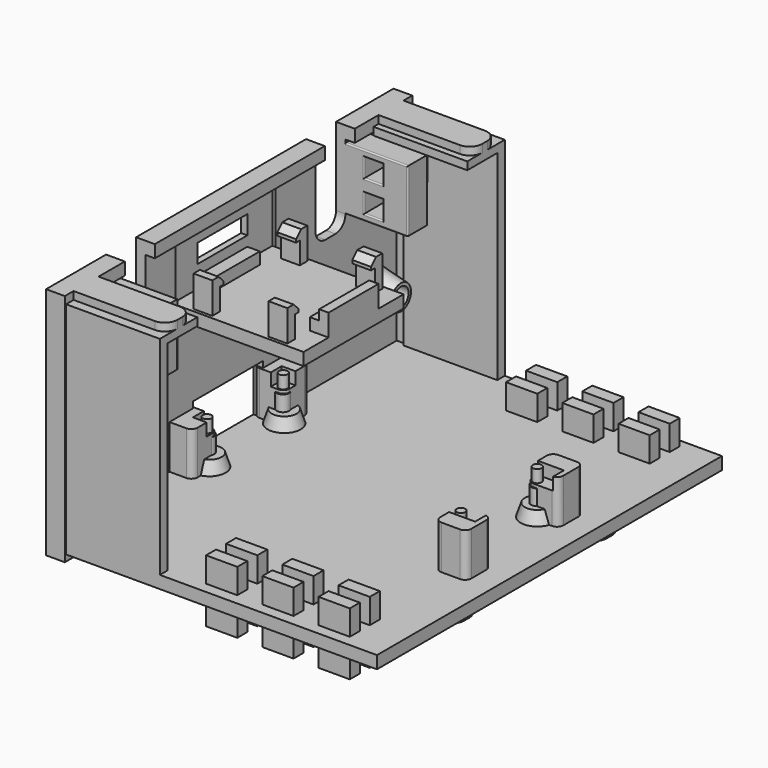
from build123d import *

# Parameters (mm, degrees)
BOX019_W               = 10
BOX019_H               = 5.45
BOX019_DEPTH           = 5
BOX019_PLACEMENT_ANGLE = 30
BOX018_W               = 5.45
BOX018_H               = 10
BOX018_DEPTH           = 5
BOX018_PLACEMENT_ANGLE = 120
BOX017_W               = 5.45
BOX017_H               = 10
BOX017_DEPTH           = 5
CYLINDER007_R          = 1
CYLINDER007_DEPTH      = 10
BOX022_W               = 10
BOX022_H               = 5.45
BOX022_DEPTH           = 5
BOX022_PLACEMENT_ANGLE = 30
BOX021_W               = 5.45
BOX021_H               = 10
BOX021_DEPTH           = 5
BOX021_PLACEMENT_ANGLE = 120
BOX020_W               = 5.45
BOX020_H               = 10
BOX020_DEPTH           = 5
CYLINDER008_R          = 1
CYLINDER008_DEPTH      = 10
BOX025_W               = 10
BOX025_H               = 5.45
BOX025_DEPTH           = 5
BOX025_PLACEMENT_ANGLE = 30
BOX024_W               = 5.45
BOX024_H               = 10
BOX024_DEPTH           = 5
BOX024_PLACEMENT_ANGLE = 120
BOX023_W               = 5.45
BOX023_H               = 10
BOX023_DEPTH           = 5
CYLINDER009_R          = 1
CYLINDER009_DEPTH      = 10
BOX016_W               = 10
BOX016_H               = 5.45
BOX016_DEPTH           = 5
BOX016_PLACEMENT_ANGLE = 30
BOX015_W               = 5.45
BOX015_H               = 10
BOX015_DEPTH           = 5
BOX015_PLACEMENT_ANGLE = 120
BOX014_W               = 5.45
BOX014_H               = 10
BOX014_DEPTH           = 5
CYLINDER006_R          = 1
CYLINDER006_DEPTH      = 10
BOX042_W               = 5
BOX042_H               = 2
BOX042_DEPTH           = 10
BOX043_W               = 5
BOX043_H               = 2
BOX043_DEPTH           = 10
BOX041_W               = 5
BOX041_H               = 2
BOX041_DEPTH           = 10
BOX045_W               = 5
BOX045_H               = 2
BOX045_DEPTH           = 10
BOX046_W               = 5
BOX046_H               = 2
BOX046_DEPTH           = 10
BOX044_W               = 5
BOX044_H               = 2
BOX044_DEPTH           = 10
BOX048_W               = 5
BOX048_H               = 2
BOX048_DEPTH           = 10
BOX049_W               = 5
BOX049_H               = 2
BOX049_DEPTH           = 10
BOX047_W               = 5
BOX047_H               = 2
BOX047_DEPTH           = 10
BOX039_W               = 5
BOX039_H               = 2
BOX039_DEPTH           = 10
BOX040_W               = 5
BOX040_H               = 2
BOX040_DEPTH           = 10
BOX038_W               = 5
BOX038_H               = 2
BOX038_DEPTH           = 10
BOX062_W               = 15
BOX062_H               = 7.5
BOX062_DEPTH           = 34
BOX063_W               = 15
BOX063_H               = 7.5
BOX063_DEPTH           = 34
BOX060_W               = 15
BOX060_H               = 7.5
BOX060_DEPTH           = 34.75
BOX061_W               = 15
BOX061_H               = 7.5
BOX061_DEPTH           = 34.75
BOX081_W               = 19.5
BOX081_H               = 16
BOX081_DEPTH           = 1.6
BOX083_W               = 21
BOX083_H               = 20
BOX083_DEPTH           = 2
BOX073_W               = 3
BOX073_H               = 14.5
BOX073_DEPTH           = 10
BOX080_W               = 3
BOX080_H               = 16
BOX080_DEPTH           = 7
BOX075_W               = 3
BOX075_H               = 19
BOX075_DEPTH           = 7
CHAMFER_SIZE           = 1
BOX079_W               = 2
BOX079_H               = 10
BOX079_DEPTH           = 3
BOX074_W               = 1
BOX074_H               = 20
BOX074_DEPTH           = 12
BOX072_W               = 3
BOX072_H               = 10
BOX072_DEPTH           = 5.5
BOX077_W               = 3
BOX077_H               = 14.5
BOX077_DEPTH           = 10
BOX076_W               = 3
BOX076_H               = 16
BOX076_DEPTH           = 7
BOX078_W               = 3
BOX078_H               = 19
BOX078_DEPTH           = 7
CHAMFER001_SIZE        = 1
BOX082_W               = 3
BOX082_H               = 10
BOX082_DEPTH           = 5.5
CUT005_PLACEMENT_ANGLE = 180
BOX084_W               = 5
BOX084_H               = 20
BOX084_DEPTH           = 11
BOX065_W               = 10
BOX065_H               = 6
BOX065_DEPTH           = 15
FILLET029_R            = 2
BOX064_W               = 10
BOX064_H               = 6
BOX064_DEPTH           = 15
FILLET028_R            = 2
BOX067_W               = 5
BOX067_H               = 5
BOX067_DEPTH           = 1.5
BOX068_W               = 5
BOX068_H               = 5
BOX068_DEPTH           = 1.5
BOX069_W               = 5
BOX069_H               = 5
BOX069_DEPTH           = 1.5
BOX070_W               = 5
BOX070_H               = 5
BOX070_DEPTH           = 1.5
BOX071_W               = 5
BOX071_H               = 5
BOX071_DEPTH           = 1.5
BOX066_W               = 5
BOX066_H               = 5
BOX066_DEPTH           = 1.5
BOX029_W               = 49
BOX029_H               = 5
BOX029_DEPTH           = 2
FILLET014_R            = 2
FILLET016_R            = 0.25
BOX030_W               = 49
BOX030_H               = 5
BOX030_DEPTH           = 2
FILLET017_R            = 2
FILLET018_R            = 0.25
BOX031_W               = 15
BOX031_H               = 5
BOX031_DEPTH           = 2
FILLET019_R            = 2
FILLET020_R            = 0.25
BOX028_W               = 15
BOX028_H               = 5
BOX028_DEPTH           = 2
FILLET_R               = 2
FILLET015_R            = 0.25
BOX027_W               = 10
BOX027_H               = 6
BOX027_DEPTH           = 15
FILLET013_R            = 2
BOX026_W               = 10
BOX026_H               = 6
BOX026_DEPTH           = 15
FILLET012_R            = 2
BOX005_W               = 15
BOX005_H               = 7.5
BOX005_DEPTH           = 34
BOX006_W               = 15
BOX006_H               = 7.5
BOX006_DEPTH           = 34
BOX003_W               = 15
BOX003_H               = 7.5
BOX003_DEPTH           = 34.75
BOX004_W               = 15
BOX004_H               = 7.5
BOX004_DEPTH           = 34.75
BOX051_W               = 5
BOX051_H               = 5
BOX051_DEPTH           = 1.5
BOX052_W               = 5
BOX052_H               = 5
BOX052_DEPTH           = 1.5
BOX053_W               = 5
BOX053_H               = 5
BOX053_DEPTH           = 1.5
BOX054_W               = 5
BOX054_H               = 5
BOX054_DEPTH           = 1.5
BOX055_W               = 5
BOX055_H               = 5
BOX055_DEPTH           = 1.5
BOX050_W               = 5
BOX050_H               = 5
BOX050_DEPTH           = 1.5
BOX037_W               = 3
BOX037_H               = 10
BOX037_DEPTH           = 3
BOX036_W               = 3
BOX036_H               = 10
BOX036_DEPTH           = 3
BOX035_W               = 10
BOX035_H               = 4
BOX035_DEPTH           = 10
FILLET023_R            = 0.2
BOX034_W               = 3
BOX034_H               = 10
BOX034_DEPTH           = 3
BOX033_W               = 3
BOX033_H               = 10
BOX033_DEPTH           = 3
BOX032_W               = 10
BOX032_H               = 4
BOX032_DEPTH           = 10
FILLET022_R            = 0.2
CYLINDER001_R          = 0.7
CYLINDER001_DEPTH      = 10
CYLINDER002_R          = 0.7
CYLINDER002_DEPTH      = 10
CYLINDER003_R          = 0.7
CYLINDER003_DEPTH      = 10
CYLINDER_R             = 0.7
CYLINDER_DEPTH         = 10
BOX_W                  = 45.16
BOX_H                  = 17.76
BOX_DEPTH              = 10
BOX057_W               = 5
BOX057_H               = 5
BOX057_DEPTH           = 7
FILLET025_R            = 1
BOX058_W               = 5
BOX058_H               = 5
BOX058_DEPTH           = 7
FILLET026_R            = 1
BOX059_W               = 5
BOX059_H               = 5
BOX059_DEPTH           = 7
FILLET027_R            = 1
BOX056_W               = 5
BOX056_H               = 5
BOX056_DEPTH           = 7
FILLET024_R            = 1
BOX002_W               = 50
BOX002_H               = 69
BOX002_DEPTH           = 2
BOX008_W               = 10
BOX008_H               = 14
BOX008_DEPTH           = 8
CYLINDER005_R          = 1.5
CYLINDER005_DEPTH      = 10
CYLINDER004_R          = 1.5
CYLINDER004_DEPTH      = 10
BOX007_W               = 3.5
BOX007_H               = 66.5
BOX007_DEPTH           = 32.5
BOX001_W               = 3
BOX001_H               = 69.5
BOX001_DEPTH           = 37.5


with BuildPart() as cone002:
    # Cone002 → Cone002 (revolve)
    with BuildSketch(Plane(origin=(42, 27, 2), x_dir=(1, 0, 0), z_dir=(0, -1, 0))):
        Polygon((0, 0), (3, 0), (2, 3), (0, 3), align=None)
    revolve(axis=Axis((42, 27, 2), (0, 0, 1)))


with BuildPart() as cone003:
    # Cone003 → Cone003 (revolve)
    with BuildSketch(Plane(origin=(42, 42, 2), x_dir=(1, 0, 0), z_dir=(0, -1, 0))):
        Polygon((0, 0), (3, 0), (2, 3), (0, 3), align=None)
    revolve(axis=Axis((42, 42, 2), (0, 0, 1)))


with BuildPart() as cone004:
    # Cone004 → Cone004 (revolve)
    with BuildSketch(Plane(origin=(1.5, 42, 2), x_dir=(1, 0, 0), z_dir=(0, -1, 0))):
        Polygon((0, 0), (3, 0), (2, 3), (0, 3), align=None)
    revolve(axis=Axis((1.5, 42, 2), (0, 0, 1)))


with BuildPart() as cone005:
    # Cone005 → Cone005 (revolve)
    with BuildSketch(Plane(origin=(1.5, 27, 2), x_dir=(1, 0, 0), z_dir=(0, -1, 0))):
        Polygon((0, 0), (3, 0), (2, 3), (0, 3), align=None)
    revolve(axis=Axis((1.5, 27, 2), (0, 0, 1)))


with BuildPart() as cube019:
    # Box019 → Box019 (new body)
    with BuildSketch(Plane.XY):
        with Locations((5, 2.725)):
            Rectangle(BOX019_W, BOX019_H)
    extrude(amount=BOX019_DEPTH)


with BuildPart() as cube019_1:
    # Box019 placement: moved
    add(cube019.part.moved(Location((0.55, 4, 0))).rotate(Axis((0.55, 4, 0), (0, 0, -1)), BOX019_PLACEMENT_ANGLE))


with BuildPart() as cube018:
    # Box018 → Box018 (new body)
    with BuildSketch(Plane.XY):
        with Locations((2.725, 5)):
            Rectangle(BOX018_W, BOX018_H)
    extrude(amount=BOX018_DEPTH)


with BuildPart() as cube018_1:
    # Box018 placement: moved
    add(cube018.part.moved(Location((11.5, 4, 0))).rotate(Axis((11.5, 4, 0), (0, 0, 1)), BOX018_PLACEMENT_ANGLE))


with BuildPart() as m_25_nut001:
    # Box017 → Box017 (new body)
    with BuildSketch(Plane(origin=(3.25, 0, 0), x_dir=(1, 0, 0), z_dir=(0, 0, 1))):
        with Locations((2.725, 5)):
            Rectangle(BOX017_W, BOX017_H)
    extrude(amount=BOX017_DEPTH)

    # Common001: intersect Cube019, Cube018
    add(cube019_1.part, mode=Mode.INTERSECT)
    add(cube018_1.part, mode=Mode.INTERSECT)


with BuildPart() as m_25_nut001_1:
    # Common001 placement: moved
    add(m_25_nut001.part.moved(Location((-2, 0, -1))))


with BuildPart() as screw_hole001:
    # Cylinder007 → Cylinder007 (new body)
    with BuildSketch(Plane(origin=(4, 4, -1), x_dir=(1, 0, 0), z_dir=(0, 0, 1))):
        Circle(CYLINDER007_R)
    extrude(amount=CYLINDER007_DEPTH)

    # Fusion009: union M.25 nut001
    add(m_25_nut001_1.part)


with BuildPart() as screw_hole001_1:
    # Fusion009 placement: moved
    add(screw_hole001.part.moved(Location((-2.7, 38, 0))))


with BuildPart() as cube022:
    # Box022 → Box022 (new body)
    with BuildSketch(Plane.XY):
        with Locations((5, 2.725)):
            Rectangle(BOX022_W, BOX022_H)
    extrude(amount=BOX022_DEPTH)


with BuildPart() as cube022_1:
    # Box022 placement: moved
    add(cube022.part.moved(Location((0.55, 4, 0))).rotate(Axis((0.55, 4, 0), (0, 0, -1)), BOX022_PLACEMENT_ANGLE))


with BuildPart() as cube021:
    # Box021 → Box021 (new body)
    with BuildSketch(Plane.XY):
        with Locations((2.725, 5)):
            Rectangle(BOX021_W, BOX021_H)
    extrude(amount=BOX021_DEPTH)


with BuildPart() as cube021_1:
    # Box021 placement: moved
    add(cube021.part.moved(Location((11.5, 4, 0))).rotate(Axis((11.5, 4, 0), (0, 0, 1)), BOX021_PLACEMENT_ANGLE))


with BuildPart() as m_25_nut002:
    # Box020 → Box020 (new body)
    with BuildSketch(Plane(origin=(3.25, 0, 0), x_dir=(1, 0, 0), z_dir=(0, 0, 1))):
        with Locations((2.725, 5)):
            Rectangle(BOX020_W, BOX020_H)
    extrude(amount=BOX020_DEPTH)

    # Common002: intersect Cube022, Cube021
    add(cube022_1.part, mode=Mode.INTERSECT)
    add(cube021_1.part, mode=Mode.INTERSECT)


with BuildPart() as m_25_nut002_1:
    # Common002 placement: moved
    add(m_25_nut002.part.moved(Location((-2, 0, -1))))


with BuildPart() as screw_hole002:
    # Cylinder008 → Cylinder008 (new body)
    with BuildSketch(Plane(origin=(4, 4, -1), x_dir=(1, 0, 0), z_dir=(0, 0, 1))):
        Circle(CYLINDER008_R)
    extrude(amount=CYLINDER008_DEPTH)

    # Fusion010: union M.25 nut002
    add(m_25_nut002_1.part)


with BuildPart() as screw_hole002_1:
    # Fusion010 placement: moved
    add(screw_hole002.part.moved(Location((38, 23, 0))))


with BuildPart() as cube025:
    # Box025 → Box025 (new body)
    with BuildSketch(Plane.XY):
        with Locations((5, 2.725)):
            Rectangle(BOX025_W, BOX025_H)
    extrude(amount=BOX025_DEPTH)


with BuildPart() as cube025_1:
    # Box025 placement: moved
    add(cube025.part.moved(Location((0.55, 4, 0))).rotate(Axis((0.55, 4, 0), (0, 0, -1)), BOX025_PLACEMENT_ANGLE))


with BuildPart() as cube024:
    # Box024 → Box024 (new body)
    with BuildSketch(Plane.XY):
        with Locations((2.725, 5)):
            Rectangle(BOX024_W, BOX024_H)
    extrude(amount=BOX024_DEPTH)


with BuildPart() as cube024_1:
    # Box024 placement: moved
    add(cube024.part.moved(Location((11.5, 4, 0))).rotate(Axis((11.5, 4, 0), (0, 0, 1)), BOX024_PLACEMENT_ANGLE))


with BuildPart() as m_25_nut003:
    # Box023 → Box023 (new body)
    with BuildSketch(Plane(origin=(3.25, 0, 0), x_dir=(1, 0, 0), z_dir=(0, 0, 1))):
        with Locations((2.725, 5)):
            Rectangle(BOX023_W, BOX023_H)
    extrude(amount=BOX023_DEPTH)

    # Common003: intersect Cube025, Cube024
    add(cube025_1.part, mode=Mode.INTERSECT)
    add(cube024_1.part, mode=Mode.INTERSECT)


with BuildPart() as m_25_nut003_1:
    # Common003 placement: moved
    add(m_25_nut003.part.moved(Location((-2, 0, -1))))


with BuildPart() as screw_hole003:
    # Cylinder009 → Cylinder009 (new body)
    with BuildSketch(Plane(origin=(4, 4, -1), x_dir=(1, 0, 0), z_dir=(0, 0, 1))):
        Circle(CYLINDER009_R)
    extrude(amount=CYLINDER009_DEPTH)

    # Fusion011: union M.25 nut003
    add(m_25_nut003_1.part)


with BuildPart() as screw_hole003_1:
    # Fusion011 placement: moved
    add(screw_hole003.part.moved(Location((38, 38, 0))))


with BuildPart() as cube016:
    # Box016 → Box016 (new body)
    with BuildSketch(Plane.XY):
        with Locations((5, 2.725)):
            Rectangle(BOX016_W, BOX016_H)
    extrude(amount=BOX016_DEPTH)


with BuildPart() as cube016_1:
    # Box016 placement: moved
    add(cube016.part.moved(Location((0.55, 4, 0))).rotate(Axis((0.55, 4, 0), (0, 0, -1)), BOX016_PLACEMENT_ANGLE))


with BuildPart() as cube015:
    # Box015 → Box015 (new body)
    with BuildSketch(Plane.XY):
        with Locations((2.725, 5)):
            Rectangle(BOX015_W, BOX015_H)
    extrude(amount=BOX015_DEPTH)


with BuildPart() as cube015_1:
    # Box015 placement: moved
    add(cube015.part.moved(Location((11.5, 4, 0))).rotate(Axis((11.5, 4, 0), (0, 0, 1)), BOX015_PLACEMENT_ANGLE))


with BuildPart() as m_25_nut:
    # Box014 → Box014 (new body)
    with BuildSketch(Plane(origin=(3.25, 0, 0), x_dir=(1, 0, 0), z_dir=(0, 0, 1))):
        with Locations((2.725, 5)):
            Rectangle(BOX014_W, BOX014_H)
    extrude(amount=BOX014_DEPTH)

    # Common: intersect Cube016, Cube015
    add(cube016_1.part, mode=Mode.INTERSECT)
    add(cube015_1.part, mode=Mode.INTERSECT)


with BuildPart() as m_25_nut_1:
    # Common placement: moved
    add(m_25_nut.part.moved(Location((-2, 0, -1))))


with BuildPart() as screw_holes_cut:
    # Cylinder006 → Cylinder006 (new body)
    with BuildSketch(Plane(origin=(4, 4, -1), x_dir=(1, 0, 0), z_dir=(0, 0, 1))):
        Circle(CYLINDER006_R)
    extrude(amount=CYLINDER006_DEPTH)

    # Fusion008: union M.25 nut
    add(m_25_nut_1.part)


with BuildPart() as screw_holes_cut_1:
    # Fusion008 placement: moved
    add(screw_holes_cut.part.moved(Location((-2.7, 23, 0))))

    # Fusion012: union screw_hole001, screw_hole002, screw_hole003
    add(screw_hole001_1.part)
    add(screw_hole002_1.part)
    add(screw_hole003_1.part)


with BuildPart() as screw_holes_cut_2:
    # Fusion012 placement: moved
    add(screw_holes_cut_1.part.moved(Location((0, 0, -1.5))))


with BuildPart() as cube042:
    # Box042 → Box042 (new body)
    with BuildSketch(Plane(origin=(30, 2, -3), x_dir=(1, 0, 0), z_dir=(0, 0, 1))):
        with Locations((2.5, 1)):
            Rectangle(BOX042_W, BOX042_H)
    extrude(amount=BOX042_DEPTH)


with BuildPart() as cube043:
    # Box043 → Box043 (new body)
    with BuildSketch(Plane(origin=(39, 2, -3), x_dir=(1, 0, 0), z_dir=(0, 0, 1))):
        with Locations((2.5, 1)):
            Rectangle(BOX043_W, BOX043_H)
    extrude(amount=BOX043_DEPTH)


with BuildPart() as zip_ties_holes_board_l:
    # Box041 → Box041 (new body)
    with BuildSketch(Plane(origin=(21, 2, -3), x_dir=(1, 0, 0), z_dir=(0, 0, 1))):
        with Locations((2.5, 1)):
            Rectangle(BOX041_W, BOX041_H)
    extrude(amount=BOX041_DEPTH)

    # Fusion023: union Cube042, Cube043
    add(cube042.part)
    add(cube043.part)


with BuildPart() as zip_ties_holes_board_l_1:
    # Fusion023 placement: moved
    add(zip_ties_holes_board_l.part.moved(Location((0, 64, 0))))


with BuildPart() as cube045:
    # Box045 → Box045 (new body)
    with BuildSketch(Plane(origin=(30, 2, -3), x_dir=(1, 0, 0), z_dir=(0, 0, 1))):
        with Locations((2.5, 1)):
            Rectangle(BOX045_W, BOX045_H)
    extrude(amount=BOX045_DEPTH)


with BuildPart() as cube046:
    # Box046 → Box046 (new body)
    with BuildSketch(Plane(origin=(39, 2, -3), x_dir=(1, 0, 0), z_dir=(0, 0, 1))):
        with Locations((2.5, 1)):
            Rectangle(BOX046_W, BOX046_H)
    extrude(amount=BOX046_DEPTH)


with BuildPart() as zip_ties_holes_board_r001:
    # Box044 → Box044 (new body)
    with BuildSketch(Plane(origin=(21, 2, -3), x_dir=(1, 0, 0), z_dir=(0, 0, 1))):
        with Locations((2.5, 1)):
            Rectangle(BOX044_W, BOX044_H)
    extrude(amount=BOX044_DEPTH)

    # Fusion024: union Cube045, Cube046
    add(cube045.part)
    add(cube046.part)


with BuildPart() as zip_ties_holes_board_r001_1:
    # Fusion024 placement: moved
    add(zip_ties_holes_board_r001.part.moved(Location((0, 4, 0))))


with BuildPart() as cube048:
    # Box048 → Box048 (new body)
    with BuildSketch(Plane(origin=(30, 2, -3), x_dir=(1, 0, 0), z_dir=(0, 0, 1))):
        with Locations((2.5, 1)):
            Rectangle(BOX048_W, BOX048_H)
    extrude(amount=BOX048_DEPTH)


with BuildPart() as cube049:
    # Box049 → Box049 (new body)
    with BuildSketch(Plane(origin=(39, 2, -3), x_dir=(1, 0, 0), z_dir=(0, 0, 1))):
        with Locations((2.5, 1)):
            Rectangle(BOX049_W, BOX049_H)
    extrude(amount=BOX049_DEPTH)


with BuildPart() as zip_ties_holes_board_l001:
    # Box047 → Box047 (new body)
    with BuildSketch(Plane(origin=(21, 2, -3), x_dir=(1, 0, 0), z_dir=(0, 0, 1))):
        with Locations((2.5, 1)):
            Rectangle(BOX047_W, BOX047_H)
    extrude(amount=BOX047_DEPTH)

    # Fusion025: union Cube048, Cube049
    add(cube048.part)
    add(cube049.part)


with BuildPart() as zip_ties_holes_board_l001_1:
    # Fusion025 placement: moved
    add(zip_ties_holes_board_l001.part.moved(Location((0, 60, 0))))


with BuildPart() as cube039:
    # Box039 → Box039 (new body)
    with BuildSketch(Plane(origin=(30, 2, -3), x_dir=(1, 0, 0), z_dir=(0, 0, 1))):
        with Locations((2.5, 1)):
            Rectangle(BOX039_W, BOX039_H)
    extrude(amount=BOX039_DEPTH)


with BuildPart() as cube040:
    # Box040 → Box040 (new body)
    with BuildSketch(Plane(origin=(39, 2, -3), x_dir=(1, 0, 0), z_dir=(0, 0, 1))):
        with Locations((2.5, 1)):
            Rectangle(BOX040_W, BOX040_H)
    extrude(amount=BOX040_DEPTH)


with BuildPart() as zip_ties_holes:
    # Box038 → Box038 (new body)
    with BuildSketch(Plane(origin=(21, 2, -3), x_dir=(1, 0, 0), z_dir=(0, 0, 1))):
        with Locations((2.5, 1)):
            Rectangle(BOX038_W, BOX038_H)
    extrude(amount=BOX038_DEPTH)

    # Fusion022: union Cube039, Cube040
    add(cube039.part)
    add(cube040.part)

    # Fusion026: union zip ties holes board l, zip ties holes board r001, zip ties holes board l001
    add(zip_ties_holes_board_l_1.part)
    add(zip_ties_holes_board_r001_1.part)
    add(zip_ties_holes_board_l001_1.part)


with BuildPart() as cube062:
    # Box062 → Box062 (new body)
    with BuildSketch(Plane(origin=(0, 1.5, 1), x_dir=(1, 0, 0), z_dir=(0, 0, 1))):
        with Locations((7.5, 3.75)):
            Rectangle(BOX062_W, BOX062_H)
    extrude(amount=BOX062_DEPTH)


with BuildPart() as fusion030:
    # Box063 → Box063 (new body)
    with BuildSketch(Plane(origin=(0, 60.5, 1), x_dir=(1, 0, 0), z_dir=(0, 0, 1))):
        with Locations((7.5, 3.75)):
            Rectangle(BOX063_W, BOX063_H)
    extrude(amount=BOX063_DEPTH)

    # Fusion030: union Cube062
    add(cube062.part)


with BuildPart() as cube060:
    # Box060 → Box060 (new body)
    with BuildSketch(Plane.XY.offset(2)):
        with Locations((7.5, 3.75)):
            Rectangle(BOX060_W, BOX060_H)
    extrude(amount=BOX060_DEPTH)


with BuildPart() as cut012:
    # Box061 → Box061 (new body)
    with BuildSketch(Plane(origin=(0, 61.5, 2), x_dir=(1, 0, 0), z_dir=(0, 0, 1))):
        with Locations((7.5, 3.75)):
            Rectangle(BOX061_W, BOX061_H)
    extrude(amount=BOX061_DEPTH)

    # Fusion031: union Cube060
    add(cube060.part)


with BuildPart() as cut012_1:
    # Fusion031 placement: moved
    add(cut012.part.moved(Location((0, 0, -0.5))))

    # Cut012: cut Fusion030
    add(fusion030.part, mode=Mode.SUBTRACT)


with BuildPart() as cut012_2:
    # Cut012 placement: moved
    add(cut012_1.part.moved(Location((0, 0.25, 0))))


with BuildPart() as obj1:
    # Box081 → Box081 (new body)
    with BuildSketch(Plane(origin=(-1.5, 0, 0.4), x_dir=(1, 0, 0), z_dir=(0, 0, 1))):
        with Locations((9.75, 8)):
            Rectangle(BOX081_W, BOX081_H)
    extrude(amount=BOX081_DEPTH)


with BuildPart() as cube082:
    # Box083 → Box083 (new body)
    with BuildSketch(Plane(origin=(-3, -2, -3.5), x_dir=(1, 0, 0), z_dir=(0, 0, 1))):
        with Locations((10.5, 10)):
            Rectangle(BOX083_W, BOX083_H)
    extrude(amount=BOX083_DEPTH)


with BuildPart() as cube073:
    # Box073 → Box073 (new body)
    with BuildSketch(Plane(origin=(0, 0.75, -3), x_dir=(1, 0, 0), z_dir=(0, 0, 1))):
        with Locations((1.5, 7.25)):
            Rectangle(BOX073_W, BOX073_H)
    extrude(amount=BOX073_DEPTH)


with BuildPart() as fusion036:
    # Box080 → Box080 (new body)
    with BuildSketch(Plane.XY.offset(-5)):
        with Locations((1.5, 8)):
            Rectangle(BOX080_W, BOX080_H)
    extrude(amount=BOX080_DEPTH)

    # Fusion036: union Cube073
    add(cube073.part)


with BuildPart() as chamfer_body:
    # Box075 → Box075 (new body)
    with BuildSketch(Plane(origin=(0, -1.5, -3.5), x_dir=(1, 0, 0), z_dir=(0, 0, 1))):
        with Locations((1.5, 9.5)):
            Rectangle(BOX075_W, BOX075_H)
    extrude(amount=BOX075_DEPTH)

    # Cut016: cut Fusion036
    add(fusion036.part, mode=Mode.SUBTRACT)

    # Chamfer
    chamfer_edges = [chamfer_body.edges().sort_by_distance(p)[0] for p in [
        (1.5, 0.75, 3.5),
        (1.5, 15.25, 3.5),
    ]]
    chamfer(chamfer_edges, length=CHAMFER_SIZE)


with BuildPart() as cube079:
    # Box079 → Box079 (new body)
    with BuildSketch(Plane(origin=(18, 3, 2), x_dir=(1, 0, 0), z_dir=(0, 0, 1))):
        with Locations((1, 5)):
            Rectangle(BOX079_W, BOX079_H)
    extrude(amount=BOX079_DEPTH)


with BuildPart() as cut014:
    # Box074 → Box074 (new body)
    with BuildSketch(Plane(origin=(18, -2, -3.5), x_dir=(1, 0, 0), z_dir=(0, 0, 1))):
        with Locations((0.5, 10)):
            Rectangle(BOX074_W, BOX074_H)
    extrude(amount=BOX074_DEPTH)

    # Cut014: cut Cube079
    add(cube079.part, mode=Mode.SUBTRACT)


with BuildPart() as cube072:
    # Box072 → Box072 (new body)
    with BuildSketch(Plane(origin=(16, 3, -3.5), x_dir=(1, 0, 0), z_dir=(0, 0, 1))):
        with Locations((1.5, 5)):
            Rectangle(BOX072_W, BOX072_H)
    extrude(amount=BOX072_DEPTH)


with BuildPart() as cube077:
    # Box077 → Box077 (new body)
    with BuildSketch(Plane(origin=(0, 0.75, -3), x_dir=(1, 0, 0), z_dir=(0, 0, 1))):
        with Locations((1.5, 7.25)):
            Rectangle(BOX077_W, BOX077_H)
    extrude(amount=BOX077_DEPTH)


with BuildPart() as fusion037:
    # Box076 → Box076 (new body)
    with BuildSketch(Plane.XY.offset(-5)):
        with Locations((1.5, 8)):
            Rectangle(BOX076_W, BOX076_H)
    extrude(amount=BOX076_DEPTH)

    # Fusion037: union Cube077
    add(cube077.part)


with BuildPart() as chamfer001:
    # Box078 → Box078 (new body)
    with BuildSketch(Plane(origin=(0, -1.5, -3.5), x_dir=(1, 0, 0), z_dir=(0, 0, 1))):
        with Locations((1.5, 9.5)):
            Rectangle(BOX078_W, BOX078_H)
    extrude(amount=BOX078_DEPTH)

    # Cut015: cut Fusion037
    add(fusion037.part, mode=Mode.SUBTRACT)

    # Chamfer001
    chamfer001_edges = [chamfer001.edges().sort_by_distance(p)[0] for p in [
        (1.5, 0.75, 3.5),
        (1.5, 15.25, 3.5),
    ]]
    chamfer(chamfer001_edges, length=CHAMFER001_SIZE)


with BuildPart() as chamfer001_1:
    # Chamfer001 placement: moved
    add(chamfer001.part.moved(Location((12, 0, 0))))


with BuildPart() as obj2:
    # Box082 → Box082 (new body)
    with BuildSketch(Plane(origin=(-3, 3, -3.5), x_dir=(1, 0, 0), z_dir=(0, 0, 1))):
        with Locations((1.5, 5)):
            Rectangle(BOX082_W, BOX082_H)
    extrude(amount=BOX082_DEPTH)

    # Fusion007: union Cube082, Chamfer body, Cut014, Cube072, Chamfer001
    add(cube082.part)
    add(chamfer_body.part)
    add(cut014.part)
    add(cube072.part)
    add(chamfer001_1.part)

    # Cut005: cut obj1
    add(obj1.part, mode=Mode.SUBTRACT)


with BuildPart() as obj2_1:
    # Cut005 placement: moved
    add(obj2.part.moved(Location((16, 42, 27.55))).rotate(Axis((16, 42, 27.55), (0, 0, 1)), CUT005_PLACEMENT_ANGLE))


with BuildPart() as cube083:
    # Box084 → Box084 (new body)
    with BuildSketch(Plane(origin=(-4, 24, 24.5), x_dir=(1, 0, 0), z_dir=(0, 0, 1))):
        with Locations((2.5, 10)):
            Rectangle(BOX084_W, BOX084_H)
    extrude(amount=BOX084_DEPTH)


with BuildPart() as fillet029:
    # Box065 → Box065 (new body)
    with BuildSketch(Plane.XY.offset(16)):
        with Locations((5, 3)):
            Rectangle(BOX065_W, BOX065_H)
    extrude(amount=BOX065_DEPTH)

    # Fillet029
    fillet029_edges = [fillet029.edges().sort_by_distance(p)[0] for p in [
        (5, 0, 16),
        (5, 6, 16),
    ]]
    fillet(fillet029_edges, radius=FILLET029_R)


with BuildPart() as fillet029_1:
    # Fillet029 placement: moved
    add(fillet029.part.moved(Location((-4, 52, 7))))


with BuildPart() as cables_sockets001:
    # Box064 → Box064 (new body)
    with BuildSketch(Plane.XY.offset(16)):
        with Locations((5, 3)):
            Rectangle(BOX064_W, BOX064_H)
    extrude(amount=BOX064_DEPTH)

    # Fillet028
    fillet028_edges = [cables_sockets001.edges().sort_by_distance(p)[0] for p in [
        (5, 0, 16),
        (5, 6, 16),
    ]]
    fillet(fillet028_edges, radius=FILLET028_R)


with BuildPart() as cables_sockets001_1:
    # Fillet028 placement: moved
    add(cables_sockets001.part.moved(Location((-4, 12, 7))))

    # Fusion032: union Fillet029
    add(fillet029_1.part)


with BuildPart() as cube067:
    # Box067 → Box067 (new body)
    with BuildSketch(Plane(origin=(30, 3, 0), x_dir=(1, 0, 0), z_dir=(0, 0, 1))):
        with Locations((2.5, 2.5)):
            Rectangle(BOX067_W, BOX067_H)
    extrude(amount=BOX067_DEPTH)


with BuildPart() as cube068:
    # Box068 → Box068 (new body)
    with BuildSketch(Plane(origin=(39, 3, 0), x_dir=(1, 0, 0), z_dir=(0, 0, 1))):
        with Locations((2.5, 2.5)):
            Rectangle(BOX068_W, BOX068_H)
    extrude(amount=BOX068_DEPTH)


with BuildPart() as cube069:
    # Box069 → Box069 (new body)
    with BuildSketch(Plane(origin=(39, 63, 0), x_dir=(1, 0, 0), z_dir=(0, 0, 1))):
        with Locations((2.5, 2.5)):
            Rectangle(BOX069_W, BOX069_H)
    extrude(amount=BOX069_DEPTH)


with BuildPart() as cube070:
    # Box070 → Box070 (new body)
    with BuildSketch(Plane(origin=(30, 63, 0), x_dir=(1, 0, 0), z_dir=(0, 0, 1))):
        with Locations((2.5, 2.5)):
            Rectangle(BOX070_W, BOX070_H)
    extrude(amount=BOX070_DEPTH)


with BuildPart() as cube071:
    # Box071 → Box071 (new body)
    with BuildSketch(Plane(origin=(21, 63, 0), x_dir=(1, 0, 0), z_dir=(0, 0, 1))):
        with Locations((2.5, 2.5)):
            Rectangle(BOX071_W, BOX071_H)
    extrude(amount=BOX071_DEPTH)


with BuildPart() as fusion035:
    # Box066 → Box066 (new body)
    with BuildSketch(Plane(origin=(21, 3, 0), x_dir=(1, 0, 0), z_dir=(0, 0, 1))):
        with Locations((2.5, 2.5)):
            Rectangle(BOX066_W, BOX066_H)
    extrude(amount=BOX066_DEPTH)

    # Fusion034: union Cube067, Cube068, Cube069, Cube070, Cube071
    add(cube067.part)
    add(cube068.part)
    add(cube069.part)
    add(cube070.part)
    add(cube071.part)

    # Fusion035: union Cables sockets001
    add(cables_sockets001_1.part)


with BuildPart() as fillet016:
    # Box029 → Box029 (new body)
    with BuildSketch(Plane.XY):
        with Locations((24.5, 2.5)):
            Rectangle(BOX029_W, BOX029_H)
    extrude(amount=BOX029_DEPTH)

    # Fillet014
    fillet014_edges = [fillet016.edges().sort_by_distance(p)[0] for p in [
        (49, 0, 1),
        (49, 5, 1),
    ]]
    fillet(fillet014_edges, radius=FILLET014_R)


with BuildPart() as fillet016_1:
    # Fillet014 placement: moved
    add(fillet016.part.moved(Location((0, 45, 0))))

    # Fillet016
    fillet016_edges = [fillet016_1.edges().sort_by_distance(p)[0] for p in [
        (23.5, 50, 0),
        (23.5, 45, 0),
    ]]
    fillet(fillet016_edges, radius=FILLET016_R)


with BuildPart() as fillet016_2:
    # Fillet016 placement: moved
    add(fillet016_1.part.moved(Location((0, 0.25, 0))))


with BuildPart() as fillet018:
    # Box030 → Box030 (new body)
    with BuildSketch(Plane.XY):
        with Locations((24.5, 2.5)):
            Rectangle(BOX030_W, BOX030_H)
    extrude(amount=BOX030_DEPTH)

    # Fillet017
    fillet017_edges = [fillet018.edges().sort_by_distance(p)[0] for p in [
        (49, 0, 1),
        (49, 5, 1),
    ]]
    fillet(fillet017_edges, radius=FILLET017_R)


with BuildPart() as fillet018_1:
    # Fillet017 placement: moved
    add(fillet018.part.moved(Location((0, 17, 0))))

    # Fillet018
    fillet018_edges = [fillet018_1.edges().sort_by_distance(p)[0] for p in [
        (23.5, 22, 0),
        (23.5, 17, 0),
    ]]
    fillet(fillet018_edges, radius=FILLET018_R)


with BuildPart() as fillet018_2:
    # Fillet018 placement: moved
    add(fillet018_1.part.moved(Location((0, -0.25, 0))))


with BuildPart() as fillet020:
    # Box031 → Box031 (new body)
    with BuildSketch(Plane(origin=(0, -15.25, 0), x_dir=(1, 0, 0), z_dir=(0, 0, 1))):
        with Locations((7.5, 2.5)):
            Rectangle(BOX031_W, BOX031_H)
    extrude(amount=BOX031_DEPTH)

    # Fillet019
    fillet019_edges = [fillet020.edges().sort_by_distance(p)[0] for p in [
        (15, -15.25, 1),
        (15, -10.25, 1),
    ]]
    fillet(fillet019_edges, radius=FILLET019_R)


with BuildPart() as fillet020_1:
    # Fillet019 placement: moved
    add(fillet020.part.moved(Location((0, 17, 0))))

    # Fillet020
    fillet020_edges = [fillet020_1.edges().sort_by_distance(p)[0] for p in [
        (6.5, 6.75, 0),
        (6.5, 1.75, 0),
    ]]
    fillet(fillet020_edges, radius=FILLET020_R)


with BuildPart() as fillet020_2:
    # Fillet020 placement: moved
    add(fillet020_1.part.moved(Location((0, 61, 35.5))))


with BuildPart() as rails:
    # Box028 → Box028 (new body)
    with BuildSketch(Plane(origin=(0, -15.5, 0), x_dir=(1, 0, 0), z_dir=(0, 0, 1))):
        with Locations((7.5, 2.5)):
            Rectangle(BOX028_W, BOX028_H)
    extrude(amount=BOX028_DEPTH)

    # Fillet
    fillet_edges = [rails.edges().sort_by_distance(p)[0] for p in [
        (15, -15.5, 1),
        (15, -10.5, 1),
    ]]
    fillet(fillet_edges, radius=FILLET_R)


with BuildPart() as rails_1:
    # Fillet placement: moved
    add(rails.part.moved(Location((0, 17, 0))))

    # Fillet015
    fillet015_edges = [rails_1.edges().sort_by_distance(p)[0] for p in [
        (6.5, 6.5, 0),
        (6.5, 1.5, 0),
    ]]
    fillet(fillet015_edges, radius=FILLET015_R)


with BuildPart() as rails_2:
    # Fillet015 placement: moved
    add(rails_1.part.moved(Location((0, 0.25, 35.5))))

    # Fusion017: union Fillet016, Fillet018, Fillet020
    add(fillet016_2.part)
    add(fillet018_2.part)
    add(fillet020_2.part)


with BuildPart() as fillet013:
    # Box027 → Box027 (new body)
    with BuildSketch(Plane.XY.offset(16)):
        with Locations((5, 3)):
            Rectangle(BOX027_W, BOX027_H)
    extrude(amount=BOX027_DEPTH)

    # Fillet013
    fillet013_edges = [fillet013.edges().sort_by_distance(p)[0] for p in [
        (5, 0, 16),
        (5, 6, 16),
    ]]
    fillet(fillet013_edges, radius=FILLET013_R)


with BuildPart() as fillet013_1:
    # Fillet013 placement: moved
    add(fillet013.part.moved(Location((-4, 52, 7))))


with BuildPart() as cables_sockets:
    # Box026 → Box026 (new body)
    with BuildSketch(Plane.XY.offset(16)):
        with Locations((5, 3)):
            Rectangle(BOX026_W, BOX026_H)
    extrude(amount=BOX026_DEPTH)

    # Fillet012
    fillet012_edges = [cables_sockets.edges().sort_by_distance(p)[0] for p in [
        (5, 0, 16),
        (5, 6, 16),
    ]]
    fillet(fillet012_edges, radius=FILLET012_R)


with BuildPart() as cables_sockets_1:
    # Fillet012 placement: moved
    add(cables_sockets.part.moved(Location((-4, 12, 7))))

    # Fusion016: union Fillet013
    add(fillet013_1.part)


with BuildPart() as cube004:
    # Box005 → Box005 (new body)
    with BuildSketch(Plane(origin=(0, 1.5, 1), x_dir=(1, 0, 0), z_dir=(0, 0, 1))):
        with Locations((7.5, 3.75)):
            Rectangle(BOX005_W, BOX005_H)
    extrude(amount=BOX005_DEPTH)


with BuildPart() as fusion001:
    # Box006 → Box006 (new body)
    with BuildSketch(Plane(origin=(0, 60, 1), x_dir=(1, 0, 0), z_dir=(0, 0, 1))):
        with Locations((7.5, 3.75)):
            Rectangle(BOX006_W, BOX006_H)
    extrude(amount=BOX006_DEPTH)

    # Fusion001: union Cube004
    add(cube004.part)


with BuildPart() as cube002:
    # Box003 → Box003 (new body)
    with BuildSketch(Plane.XY.offset(2)):
        with Locations((7.5, 3.75)):
            Rectangle(BOX003_W, BOX003_H)
    extrude(amount=BOX003_DEPTH)


with BuildPart() as arduino_tray_rough:
    # Box004 → Box004 (new body)
    with BuildSketch(Plane(origin=(0, 61.5, 2), x_dir=(1, 0, 0), z_dir=(0, 0, 1))):
        with Locations((7.5, 3.75)):
            Rectangle(BOX004_W, BOX004_H)
    extrude(amount=BOX004_DEPTH)

    # Fusion002: union Cube002
    add(cube002.part)


with BuildPart() as arduino_tray_rough_1:
    # Fusion002 placement: moved
    add(arduino_tray_rough.part.moved(Location((0, 0, -0.5))))

    # Cut001: cut Fusion001
    add(fusion001.part, mode=Mode.SUBTRACT)


with BuildPart() as arduino_tray_rough_2:
    # Cut001 placement: moved
    add(arduino_tray_rough_1.part.moved(Location((0, 0.25, 0))))

    # Cut006: cut Cables sockets
    add(cables_sockets_1.part, mode=Mode.SUBTRACT)

    # Fusion018: union rails
    add(rails_2.part)


with BuildPart() as cube051:
    # Box051 → Box051 (new body)
    with BuildSketch(Plane(origin=(30, 3, 0), x_dir=(1, 0, 0), z_dir=(0, 0, 1))):
        with Locations((2.5, 2.5)):
            Rectangle(BOX051_W, BOX051_H)
    extrude(amount=BOX051_DEPTH)


with BuildPart() as cube052:
    # Box052 → Box052 (new body)
    with BuildSketch(Plane(origin=(39, 3, 0), x_dir=(1, 0, 0), z_dir=(0, 0, 1))):
        with Locations((2.5, 2.5)):
            Rectangle(BOX052_W, BOX052_H)
    extrude(amount=BOX052_DEPTH)


with BuildPart() as cube053:
    # Box053 → Box053 (new body)
    with BuildSketch(Plane(origin=(39, 63, 0), x_dir=(1, 0, 0), z_dir=(0, 0, 1))):
        with Locations((2.5, 2.5)):
            Rectangle(BOX053_W, BOX053_H)
    extrude(amount=BOX053_DEPTH)


with BuildPart() as cube054:
    # Box054 → Box054 (new body)
    with BuildSketch(Plane(origin=(30, 63, 0), x_dir=(1, 0, 0), z_dir=(0, 0, 1))):
        with Locations((2.5, 2.5)):
            Rectangle(BOX054_W, BOX054_H)
    extrude(amount=BOX054_DEPTH)


with BuildPart() as cube055:
    # Box055 → Box055 (new body)
    with BuildSketch(Plane(origin=(21, 63, 0), x_dir=(1, 0, 0), z_dir=(0, 0, 1))):
        with Locations((2.5, 2.5)):
            Rectangle(BOX055_W, BOX055_H)
    extrude(amount=BOX055_DEPTH)


with BuildPart() as fusion028:
    # Box050 → Box050 (new body)
    with BuildSketch(Plane(origin=(21, 3, 0), x_dir=(1, 0, 0), z_dir=(0, 0, 1))):
        with Locations((2.5, 2.5)):
            Rectangle(BOX050_W, BOX050_H)
    extrude(amount=BOX050_DEPTH)

    # Fusion028: union Cube051, Cube052, Cube053, Cube054, Cube055
    add(cube051.part)
    add(cube052.part)
    add(cube053.part)
    add(cube054.part)
    add(cube055.part)


with BuildPart() as cube037:
    # Box037 → Box037 (new body)
    with BuildSketch(Plane(origin=(3, 10, 32), x_dir=(1, 0, 0), z_dir=(0, 0, 1))):
        with Locations((1.5, 5)):
            Rectangle(BOX037_W, BOX037_H)
    extrude(amount=BOX037_DEPTH)


with BuildPart() as fusion020:
    # Box036 → Box036 (new body)
    with BuildSketch(Plane(origin=(3, 10, 27), x_dir=(1, 0, 0), z_dir=(0, 0, 1))):
        with Locations((1.5, 5)):
            Rectangle(BOX036_W, BOX036_H)
    extrude(amount=BOX036_DEPTH)

    # Fusion020: union Cube037
    add(cube037.part)


with BuildPart() as zip_ties_holder001:
    # Box035 → Box035 (new body)
    with BuildSketch(Plane(origin=(0, 10, 26), x_dir=(1, 0, 0), z_dir=(0, 0, 1))):
        with Locations((5, 2)):
            Rectangle(BOX035_W, BOX035_H)
    extrude(amount=BOX035_DEPTH)

    # Cut008: cut Fusion020
    add(fusion020.part, mode=Mode.SUBTRACT)

    # Fillet023
    fillet023_edges = [zip_ties_holder001.edges().sort_by_distance(p)[0] for p in [
        (5, 10, 26),
        (10, 10, 31),
        (5, 10, 36),
        (4.5, 10, 30),
        (6, 10, 28.5),
        (4.5, 10, 27),
        (3, 10, 28.5),
        (4.5, 10, 35),
        (6, 10, 33.5),
        (4.5, 10, 32),
        (3, 10, 33.5),
        (5, 14, 36),
        (10, 14, 31),
        (4.5, 14, 30),
        (6, 14, 28.5),
        (4.5, 14, 27),
        (3, 14, 28.5),
        (4.5, 14, 35),
        (6, 14, 33.5),
        (4.5, 14, 32),
        (3, 14, 33.5),
        (10, 12, 26),
    ]]
    fillet(fillet023_edges, radius=FILLET023_R)


with BuildPart() as zip_ties_holder001_1:
    # Fillet023 placement: moved
    add(zip_ties_holder001.part.moved(Location((-1, 48, -1))))


with BuildPart() as cube034:
    # Box034 → Box034 (new body)
    with BuildSketch(Plane(origin=(3, 5, 32), x_dir=(1, 0, 0), z_dir=(0, 0, 1))):
        with Locations((1.5, 5)):
            Rectangle(BOX034_W, BOX034_H)
    extrude(amount=BOX034_DEPTH)


with BuildPart() as fusion019:
    # Box033 → Box033 (new body)
    with BuildSketch(Plane(origin=(3, 5, 27), x_dir=(1, 0, 0), z_dir=(0, 0, 1))):
        with Locations((1.5, 5)):
            Rectangle(BOX033_W, BOX033_H)
    extrude(amount=BOX033_DEPTH)

    # Fusion019: union Cube034
    add(cube034.part)


with BuildPart() as cut010:
    # Box032 → Box032 (new body)
    with BuildSketch(Plane(origin=(0, 8, 26), x_dir=(1, 0, 0), z_dir=(0, 0, 1))):
        with Locations((5, 2)):
            Rectangle(BOX032_W, BOX032_H)
    extrude(amount=BOX032_DEPTH)

    # Cut007: cut Fusion019
    add(fusion019.part, mode=Mode.SUBTRACT)

    # Fillet022
    fillet022_edges = [cut010.edges().sort_by_distance(p)[0] for p in [
        (5, 8, 26),
        (10, 8, 31),
        (5, 8, 36),
        (4.5, 8, 30),
        (6, 8, 28.5),
        (4.5, 8, 27),
        (3, 8, 28.5),
        (4.5, 8, 35),
        (6, 8, 33.5),
        (4.5, 8, 32),
        (3, 8, 33.5),
        (5, 12, 36),
        (10, 12, 31),
        (4.5, 12, 30),
        (6, 12, 28.5),
        (4.5, 12, 27),
        (3, 12, 28.5),
        (4.5, 12, 35),
        (6, 12, 33.5),
        (4.5, 12, 32),
        (3, 12, 33.5),
        (10, 10, 26),
    ]]
    fillet(fillet022_edges, radius=FILLET022_R)


with BuildPart() as cut010_1:
    # Fillet022 placement: moved
    add(cut010.part.moved(Location((-1, 0, -1))))

    # Fusion021: union zip ties holder001
    add(zip_ties_holder001_1.part)


with BuildPart() as cut010_2:
    # Fusion021 placement: moved
    add(cut010_1.part.moved(Location((-0.5, 0, 0))))

    # Cut010: cut Fusion028
    add(fusion028.part, mode=Mode.SUBTRACT)


with BuildPart() as cylinder001:
    # Cylinder001 → Cylinder001 (new body)
    with BuildSketch(Plane(origin=(41.9, 1.26, 0), x_dir=(1, 0, 0), z_dir=(0, 0, 1))):
        Circle(CYLINDER001_R)
    extrude(amount=CYLINDER001_DEPTH)


with BuildPart() as cylinder002:
    # Cylinder002 → Cylinder002 (new body)
    with BuildSketch(Plane(origin=(1.26, 16.5, 0), x_dir=(1, 0, 0), z_dir=(0, 0, 1))):
        Circle(CYLINDER002_R)
    extrude(amount=CYLINDER002_DEPTH)


with BuildPart() as cylinder003:
    # Cylinder003 → Cylinder003 (new body)
    with BuildSketch(Plane(origin=(41.9, 16.5, 0), x_dir=(1, 0, 0), z_dir=(0, 0, 1))):
        Circle(CYLINDER003_R)
    extrude(amount=CYLINDER003_DEPTH)


with BuildPart() as holes:
    # Cylinder → Cylinder (new body)
    with BuildSketch(Plane(origin=(1.26, 1.26, 0), x_dir=(1, 0, 0), z_dir=(0, 0, 1))):
        Circle(CYLINDER_R)
    extrude(amount=CYLINDER_DEPTH)

    # Fusion: union Cylinder001, Cylinder002, Cylinder003
    add(cylinder001.part)
    add(cylinder002.part)
    add(cylinder003.part)


with BuildPart() as arduino_board_shape:
    # Box → Box (new body)
    with BuildSketch(Plane.XY):
        with Locations((22.58, 8.88)):
            Rectangle(BOX_W, BOX_H)
    extrude(amount=BOX_DEPTH)

    # Cut: cut Holes
    add(holes.part, mode=Mode.SUBTRACT)


with BuildPart() as arduino_board_shape_1:
    # Cut placement: moved
    add(arduino_board_shape.part.moved(Location((0, 25.62, 3))))


with BuildPart() as fillet025:
    # Box057 → Box057 (new body)
    with BuildSketch(Plane(origin=(-2.8, 41.2, -2), x_dir=(1, 0, 0), z_dir=(0, 0, 1))):
        with Locations((2.5, 2.5)):
            Rectangle(BOX057_W, BOX057_H)
    extrude(amount=BOX057_DEPTH)

    # Fillet025
    fillet025_edges = [fillet025.edges().sort_by_distance(p)[0] for p in [
        (-2.8, 41.2, 1.5),
        (-2.8, 46.2, 1.5),
        (2.2, 41.2, 1.5),
        (2.2, 46.2, 1.5),
    ]]
    fillet(fillet025_edges, radius=FILLET025_R)


with BuildPart() as fillet026:
    # Box058 → Box058 (new body)
    with BuildSketch(Plane(origin=(41, 41.2, -2), x_dir=(1, 0, 0), z_dir=(0, 0, 1))):
        with Locations((2.5, 2.5)):
            Rectangle(BOX058_W, BOX058_H)
    extrude(amount=BOX058_DEPTH)

    # Fillet026
    fillet026_edges = [fillet026.edges().sort_by_distance(p)[0] for p in [
        (41, 41.2, 1.5),
        (41, 46.2, 1.5),
        (46, 41.2, 1.5),
        (46, 46.2, 1.5),
    ]]
    fillet(fillet026_edges, radius=FILLET026_R)


with BuildPart() as fillet027:
    # Box059 → Box059 (new body)
    with BuildSketch(Plane(origin=(41, 22.8, -2), x_dir=(1, 0, 0), z_dir=(0, 0, 1))):
        with Locations((2.5, 2.5)):
            Rectangle(BOX059_W, BOX059_H)
    extrude(amount=BOX059_DEPTH)

    # Fillet027
    fillet027_edges = [fillet027.edges().sort_by_distance(p)[0] for p in [
        (41, 22.8, 1.5),
        (41, 27.8, 1.5),
        (46, 22.8, 1.5),
        (46, 27.8, 1.5),
    ]]
    fillet(fillet027_edges, radius=FILLET027_R)


with BuildPart() as cut011:
    # Box056 → Box056 (new body)
    with BuildSketch(Plane(origin=(-2.8, 22.8, -2), x_dir=(1, 0, 0), z_dir=(0, 0, 1))):
        with Locations((2.5, 2.5)):
            Rectangle(BOX056_W, BOX056_H)
    extrude(amount=BOX056_DEPTH)

    # Fillet024
    fillet024_edges = [cut011.edges().sort_by_distance(p)[0] for p in [
        (-2.8, 22.8, 1.5),
        (-2.8, 27.8, 1.5),
        (2.2, 22.8, 1.5),
        (2.2, 27.8, 1.5),
    ]]
    fillet(fillet024_edges, radius=FILLET024_R)

    # Fusion029: union Fillet025, Fillet026, Fillet027
    add(fillet025.part)
    add(fillet026.part)
    add(fillet027.part)

    # Cut011: cut Arduino_board_shape
    add(arduino_board_shape_1.part, mode=Mode.SUBTRACT)


with BuildPart() as cut011_1:
    # Cut011 placement: moved
    add(cut011.part.moved(Location((0, 0, 5))))


with BuildPart() as cube001:
    # Box002 → Box002 (new body)
    with BuildSketch(Plane(origin=(-0.25, 0.25, 1), x_dir=(1, 0, 0), z_dir=(0, 0, 1))):
        with Locations((25, 34.5)):
            Rectangle(BOX002_W, BOX002_H)
    extrude(amount=BOX002_DEPTH)


with BuildPart() as cube007:
    # Box008 → Box008 (new body)
    with BuildSketch(Plane(origin=(-5, 27.5, 3), x_dir=(1, 0, 0), z_dir=(0, 0, 1))):
        with Locations((5, 7)):
            Rectangle(BOX008_W, BOX008_H)
    extrude(amount=BOX008_DEPTH)


with BuildPart() as cylinder005:
    # Cylinder005 → Cylinder005 (new body)
    with BuildSketch(Plane(origin=(-5, 63.5, 32.5), x_dir=(0, 0, -1), z_dir=(1, 0, 0))):
        Circle(CYLINDER005_R)
    extrude(amount=CYLINDER005_DEPTH)


with BuildPart() as fusion003:
    # Cylinder004 → Cylinder004 (new body)
    with BuildSketch(Plane(origin=(-5, 6, 32.5), x_dir=(0, 0, -1), z_dir=(1, 0, 0))):
        Circle(CYLINDER004_R)
    extrude(amount=CYLINDER004_DEPTH)

    # Fusion003: union Cylinder005
    add(cylinder005.part)


with BuildPart() as fusion003_1:
    # Fusion003 placement: moved
    add(fusion003.part.moved(Location((0, 0, -20))))


with BuildPart() as cone001:
    # Cone001 → Cone001 (revolve)
    with BuildSketch(Plane(origin=(-1, 63.5, 32.5), x_dir=(0, 0, -1), z_dir=(0, -1, 0))):
        Polygon((0, 0), (3, 0), (2, 5), (0, 5), align=None)
    revolve(axis=Axis((-1, 63.5, 32.5), (1, 0, 0)))


with BuildPart() as fusion004:
    # Cone → Cone (revolve)
    with BuildSketch(Plane(origin=(-1, 6, 32.5), x_dir=(0, 0, -1), z_dir=(0, -1, 0))):
        Polygon((0, 0), (3, 0), (2, 5), (0, 5), align=None)
    revolve(axis=Axis((-1, 6, 32.5), (1, 0, 0)))

    # Fusion004: union Cone001
    add(cone001.part)


with BuildPart() as fusion004_1:
    # Fusion004 placement: moved
    add(fusion004.part.moved(Location((-1, 0, -20))))


with BuildPart() as cube006:
    # Box007 → Box007 (new body)
    with BuildSketch(Plane(origin=(-1.5, 1.75, 3), x_dir=(1, 0, 0), z_dir=(0, 0, 1))):
        with Locations((1.75, 33.25)):
            Rectangle(BOX007_W, BOX007_H)
    extrude(amount=BOX007_DEPTH)


with BuildPart() as all:
    # Box001 → Box001 (new body)
    with BuildSketch(Plane(origin=(-3, 0, 0), x_dir=(1, 0, 0), z_dir=(0, 0, 1))):
        with Locations((1.5, 34.75)):
            Rectangle(BOX001_W, BOX001_H)
    extrude(amount=BOX001_DEPTH)

    # Cut002: cut Cube006
    add(cube006.part, mode=Mode.SUBTRACT)

    # Fusion005: union Fusion004
    add(fusion004_1.part)

    # Cut003: cut Fusion003
    add(fusion003_1.part, mode=Mode.SUBTRACT)

    # Cut004: cut Cube007
    add(cube007.part, mode=Mode.SUBTRACT)

    # Fusion014: union Cube001
    add(cube001.part)

    # Fusion033: union Arduino tray rough, Cut010, Cut011
    add(arduino_tray_rough_2.part)
    add(cut010_2.part)
    add(cut011_1.part)

    # Cut013: cut Fusion035
    add(fusion035.part, mode=Mode.SUBTRACT)

    # Cut017: cut Cube083
    add(cube083.part, mode=Mode.SUBTRACT)

    # Fusion038: union obj2
    add(obj2_1.part)


solid = Compound([cone002.part, cone003.part, cone004.part, cone005.part, screw_holes_cut_2.part, zip_ties_holes.part, cut012_2.part, all.part])
